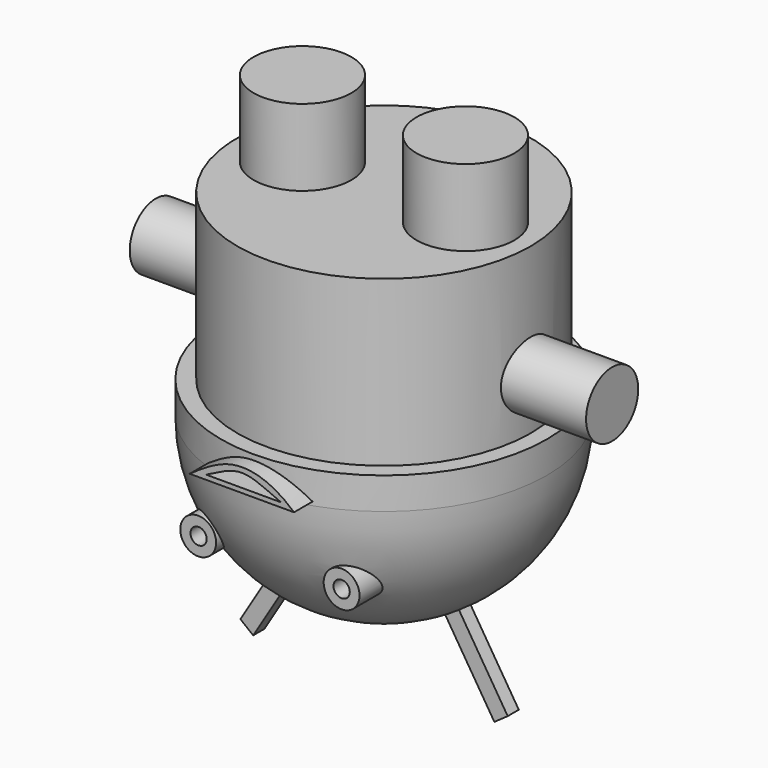
from build123d import *

# Parameters (mm, degrees)
F0_R          = 15
F3_DEPTH      = 30
F1_R          = 45
F4_DEPTH      = 50
F4_DEPTH_BACK = 6.5
F5_START      = -44
F2_R          = 50
F5_DEPTH      = 9.75
F6_R          = 10
F7_DEPTH      = 70
F8_R          = 10
F9_DEPTH      = 70
F12_R         = 5.5
F13_DEPTH     = 43.75
F14_R         = 2.5
F15_DEPTH     = 50.5
F17_DEPTH     = 4.25
F19_DEPTH     = 54.5
F21_DEPTH     = 63.5


with BuildPart() as f3:
    # F0 (on Top) → F3 (new body)
    with BuildSketch(Plane.XY):
        with Locations((-25, 0)):
            Circle(F0_R)
    extrude(amount=F3_DEPTH)



with BuildPart() as f3b:
    # F0 (on Top) → F3, piece 2 (new body)
    with BuildSketch(Plane.XY):
        with Locations((25, 0)):
            Circle(F0_R)
    extrude(amount=F3_DEPTH)


with BuildPart() as f3_1:
    add(f3.part)

    add(f3b.part)  # F4 merges F3b
    # F1 (on Top) → F4 (join, two sides)
    with BuildSketch(Plane.XY) as f4_sk:
        Circle(F1_R)
    extrude(amount=-F4_DEPTH)
    extrude(f4_sk.sketch, amount=F4_DEPTH_BACK)

    # F2 (on Top) → F5 (join)
    with BuildSketch(Plane.XY.offset(F5_START)):
        Circle(F2_R)
    extrude(amount=-F5_DEPTH)

    # F6 (on Right) → F7 (join)
    with BuildSketch(Plane.YZ):
        with Locations((0, -28)):
            Circle(F6_R)
    extrude(amount=F7_DEPTH)

    # F8 (on Right) → F9 (join)
    with BuildSketch(Plane.YZ):
        with Locations((0, -28)):
            Circle(F8_R)
    extrude(amount=-F9_DEPTH)

    # F10 (on Front) → F11 (revolve)
    with BuildSketch(Plane.XZ):
        with BuildLine():
            Line((0, -53.75), (0, -103.75))
            ThreePointArc((0, -103.75), (35.3553390593, -89.1053390593), (50, -53.75))
            Line((50, -53.75), (0, -53.75))
        make_face()
    revolve(axis=Axis((0, 0, -78.75), (0, 0, -1)))

    # F12 (on Front) → F13 (join)
    with BuildSketch(Plane.XZ):
        with Locations((22, -75.75)):
            Circle(F12_R)
        with Locations((-22, -75.75)):
            Circle(F12_R)
    extrude(amount=F13_DEPTH)

    # F14 (on Front) → F15 (cut)
    with BuildSketch(Plane.XZ):
        with Locations((22.0108069479, -75.75)):
            Circle(F14_R)
        with Locations((-21.8705814332, -75.75)):
            Circle(F14_R)
    extrude(amount=F15_DEPTH, mode=Mode.SUBTRACT)

    # F16 (on Front) → F17 (join)
    with BuildSketch(Plane.XZ):
        Polygon((37.273382177, -122.7384150805), (41.3573574255, -119.8537753855), (25.9457886256, -95.2878732623), (21.5874810644, -97.7384150805), align=None)
        Polygon((-40.6426425745, -120.3244923925), (-36.726617823, -123.4333105193), (-21.49733765, -98.4333105193), (-25.5781691914, -95.5442252089), align=None)
    extrude(amount=F17_DEPTH)

    # F18 (on Front) → F19 (join)
    with BuildSketch(Plane.XZ):
        with BuildLine():
            Line((-16, -52.6157000572), (16, -52.6157000572))
            add(Edge.make_bspline(
                [(16, -52.6157000572), (10.6081692502, -47.7225370705), (-0.6081692502, -43.4127992868), (-9.3918307498, -47.914664585), (-16, -52.6157000572)],
                knots=[0, 0, 0, 0, 0.5, 1, 1, 1, 1], degree=3))
        make_face()
    extrude(amount=F19_DEPTH)

    # F20 (on Front) → F21 (cut)
    with BuildSketch(Plane.XZ):
        with BuildLine():
            Line((-11, -51.2171401906), (12, -51.2171401906))
            add(Edge.make_bspline(
                [(12, -51.2171401906), (7.809161948, -49.4812574583), (-0.0193589542, -44.8915549483), (-7.190838052, -49.3467373151), (-11, -51.2171401906)],
                knots=[0, 0, 0, 0, 0.5096641908, 1, 1, 1, 1], degree=3))
        make_face()
    extrude(amount=F21_DEPTH, mode=Mode.SUBTRACT)


solid = f3_1.part
